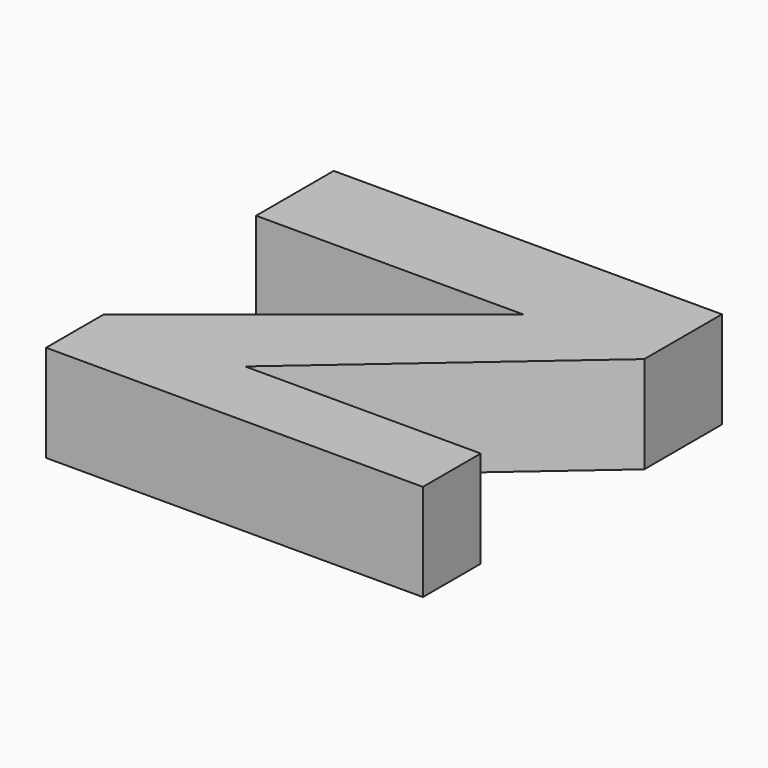
from build123d import *

# Parameters (mm, degrees)
F1_DEPTH = 10


with BuildPart() as f1:
    # F0 (on Top) → F1 (new body)
    with BuildSketch(Plane.XY):
        Polygon((-40, 0), (-12.4989216356, 0), (0, 10), (-40, 10), align=None)
        Polygon((-32.865574352, -28.5135141142), (-38.8260707259, -21.0635364056), (-38.8260707259, -28.5135141142), align=None)
        Polygon((0, -21.0635364056), (-24.2784954208, -21.0635364056), (-32.865574352, -28.5135141142), (0, -28.5135141142), align=None)
        Polygon((-12.4989216356, 0), (0, 0), (0, 10), align=None)
        Polygon((-24.2784954208, -21.0635364056), (0, 0), (-12.4989216356, 0), (-38.8260707259, -21.0635364056), align=None)
        Polygon((-32.865574352, -28.5135141142), (-24.2784954208, -21.0635364056), (-38.8260707259, -21.0635364056), align=None)
    extrude(amount=F1_DEPTH)


solid = f1.part
